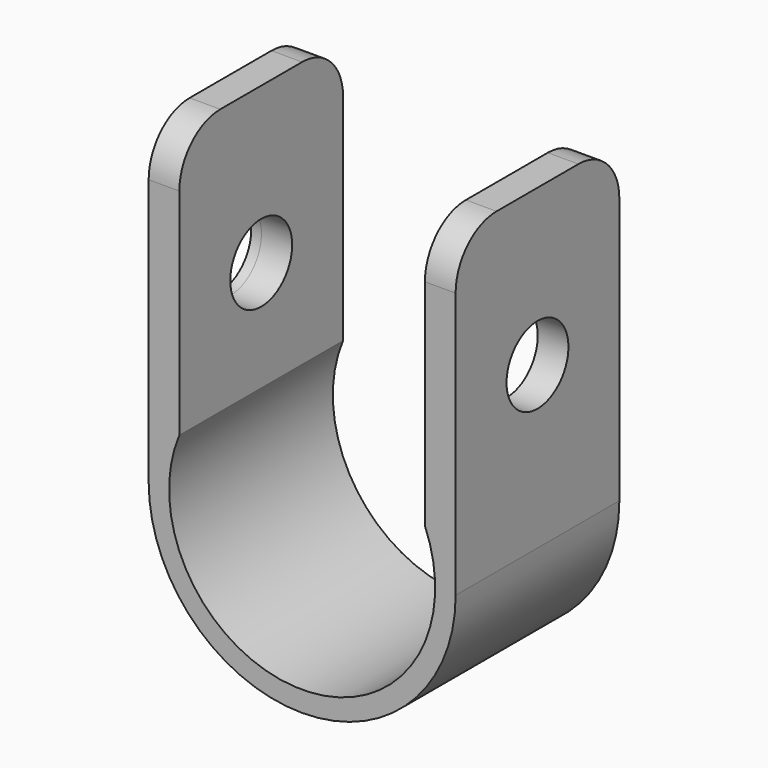
from build123d import *

# Parameters (mm, degrees)
F1_DEPTH  = 20
F2_R      = 8.175018
F2_R_2    = 3.780512
F3_DEPTH  = 1
F3_FACE_R = 3.780512
F4_DEPTH  = 47.6
F5_R      = 5


with BuildPart() as f1:
    # F0 (on Front) → F1 (new body)
    with BuildSketch(Plane.XZ):
        with BuildLine():
            ThreePointArc((12, 5), (0, -13), (-12, 5))
            Line((-12, 5), (-12, 31))
            Line((-12, 31), (-15, 31))
            Line((-15, 31), (-15, 0))
            ThreePointArc((-15, 0), (0, -15), (15, 0))
            Line((15, 0), (15, 31))
            Line((15, 31), (12, 31))
            Line((12, 31), (12, 5))
        make_face()
    extrude(amount=F1_DEPTH)

    # F2 (on face) → F3 (join)
    with BuildSketch(Plane(origin=(-15, 0, 0), x_dir=(0, -1, 0), z_dir=(-1, 0, 0))):
        with Locations((10, 15.762184)):
            Circle(F2_R)
        with Locations((10, 15.762184)):
            Circle(F2_R_2, mode=Mode.SUBTRACT)
    extrude(amount=F3_DEPTH)

    # F3_face (on face) → F4 (cut)
    with BuildSketch(Plane(origin=(-15, -10, 15.762184), x_dir=(0, -1, 0), z_dir=(-1, 0, 0))):
        Circle(F3_FACE_R)
    extrude(amount=-F4_DEPTH, mode=Mode.SUBTRACT)

    # F5
    f5_edges = [f1.edges().sort_by_distance(p)[0] for p in [
        (-13.5, -20, 31),
        (-13.5, 0, 31),
        (13.5, -20, 31),
        (13.5, 0, 31),
    ]]
    fillet(f5_edges, radius=F5_R)


solid = f1.part
